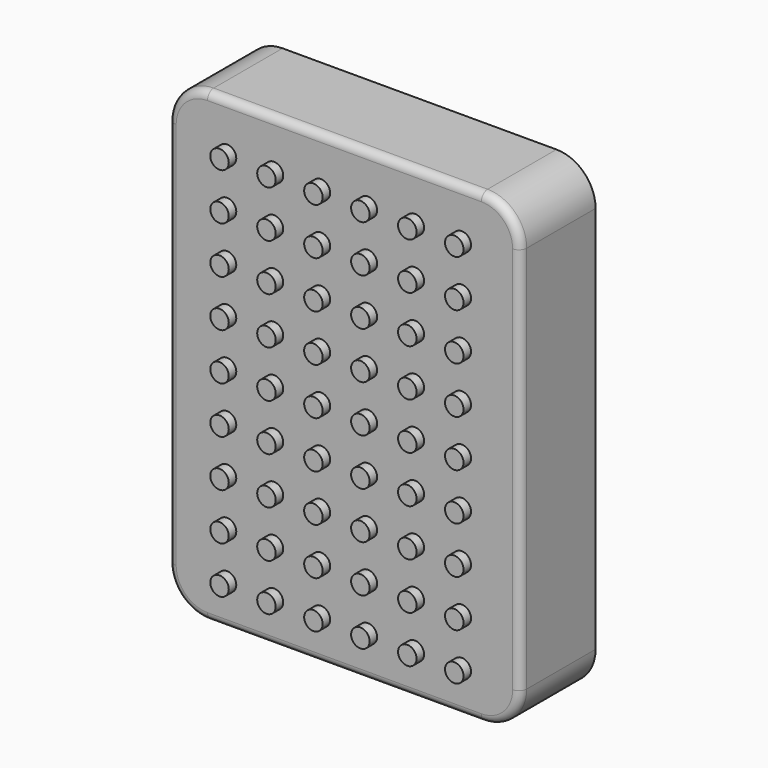
from build123d import *

# Parameters (mm, degrees)
F1_DEPTH = 12
F2_R     = 1
F3_W     = 3.8
F3_H     = 3.8
F4_DEPTH = 2.3
F5_R     = 1.182199
F6_DEPTH = 1.2


with BuildPart() as f1:
    # F0 (on Front) → F1 (new body)
    with BuildSketch(Plane.XZ):
        with BuildLine():
            Line((17.5, 29.8), (-17.5, 29.8))
            ThreePointArc((-17.5, 29.8), (-21.035534, 28.335534), (-22.5, 24.8))
            Line((-22.5, 24.8), (-22.5, -24.8))
            ThreePointArc((-22.5, -24.8), (-21.035534, -28.335534), (-17.5, -29.8))
            Line((-17.5, -29.8), (17.5, -29.8))
            ThreePointArc((17.5, -29.8), (21.035534, -28.335534), (22.5, -24.8))
            Line((22.5, -24.8), (22.5, 24.8))
            ThreePointArc((22.5, 24.8), (21.035534, 28.335534), (17.5, 29.8))
        make_face()
    extrude(amount=F1_DEPTH)

    # F2
    f2_edges = [f1.edges().sort_by_distance(p)[0] for p in [
        (0, -12, 29.8),
        (-21.035534, -12, 28.335534),
        (-22.5, -12, 0),
        (-21.035534, -12, -28.335534),
        (0, -12, -29.8),
        (21.035534, -12, -28.335534),
        (22.5, -12, 0),
        (21.035534, -12, 28.335534),
    ]]
    fillet(f2_edges, radius=F2_R)

    # F3 (on face) → F4 (cut)
    with BuildSketch(Plane(origin=(0, 0, 0), x_dir=(-1, 0, 0), z_dir=(0, 1, 0))):
        with Locations((10, 20)):
            Rectangle(F3_W, F3_H)
        with Locations((-14, 0)):
            Rectangle(F3_W, F3_H)
        with Locations((10, -20)):
            Rectangle(F3_W, F3_H)
    extrude(amount=-F4_DEPTH, mode=Mode.SUBTRACT)

    # F5 (on face) → F6 (join)
    with BuildSketch(Plane.XZ.offset(12)):
        with Locations((-15, 23.5)):
            Circle(F5_R)
        with Locations((-15, 17.5)):
            Circle(F5_R)
        with Locations((-15, 11.5)):
            Circle(F5_R)
        with Locations((-15, 5.5)):
            Circle(F5_R)
        with Locations((-15, -0.5)):
            Circle(F5_R)
        with Locations((-9, 23.5)):
            Circle(F5_R)
        with Locations((-9, 17.5)):
            Circle(F5_R)
        with Locations((-9, 11.5)):
            Circle(F5_R)
        with Locations((-9, 5.5)):
            Circle(F5_R)
        with Locations((-9, -0.5)):
            Circle(F5_R)
        with Locations((-3, 23.5)):
            Circle(F5_R)
        with Locations((-3, 17.5)):
            Circle(F5_R)
        with Locations((-3, 11.5)):
            Circle(F5_R)
        with Locations((-3, 5.5)):
            Circle(F5_R)
        with Locations((-3, -0.5)):
            Circle(F5_R)
        with Locations((3, 23.5)):
            Circle(F5_R)
        with Locations((3, 17.5)):
            Circle(F5_R)
        with Locations((3, 11.5)):
            Circle(F5_R)
        with Locations((3, 5.5)):
            Circle(F5_R)
        with Locations((3, -0.5)):
            Circle(F5_R)
        with Locations((-15, -6.5)):
            Circle(F5_R)
        with Locations((-15, -12.5)):
            Circle(F5_R)
        with Locations((-15, -18.5)):
            Circle(F5_R)
        with Locations((-15, -24.5)):
            Circle(F5_R)
        with Locations((-9, -6.5)):
            Circle(F5_R)
        with Locations((-9, -12.5)):
            Circle(F5_R)
        with Locations((-9, -18.5)):
            Circle(F5_R)
        with Locations((-9, -24.5)):
            Circle(F5_R)
        with Locations((-3, -6.5)):
            Circle(F5_R)
        with Locations((-3, -12.5)):
            Circle(F5_R)
        with Locations((-3, -18.5)):
            Circle(F5_R)
        with Locations((-3, -24.5)):
            Circle(F5_R)
        with Locations((3, -6.5)):
            Circle(F5_R)
        with Locations((3, -12.5)):
            Circle(F5_R)
        with Locations((3, -18.5)):
            Circle(F5_R)
        with Locations((3, -24.5)):
            Circle(F5_R)
        with Locations((9, 23.5)):
            Circle(F5_R)
        with Locations((9, 17.5)):
            Circle(F5_R)
        with Locations((9, 11.5)):
            Circle(F5_R)
        with Locations((9, 5.5)):
            Circle(F5_R)
        with Locations((9, -0.5)):
            Circle(F5_R)
        with Locations((9, -6.5)):
            Circle(F5_R)
        with Locations((9, -12.5)):
            Circle(F5_R)
        with Locations((9, -18.5)):
            Circle(F5_R)
        with Locations((9, -24.5)):
            Circle(F5_R)
        with Locations((15, 23.5)):
            Circle(F5_R)
        with Locations((15, 17.5)):
            Circle(F5_R)
        with Locations((15, 11.5)):
            Circle(F5_R)
        with Locations((15, 5.5)):
            Circle(F5_R)
        with Locations((15, -0.5)):
            Circle(F5_R)
        with Locations((15, -6.5)):
            Circle(F5_R)
        with Locations((15, -12.5)):
            Circle(F5_R)
        with Locations((15, -18.5)):
            Circle(F5_R)
        with Locations((15, -24.5)):
            Circle(F5_R)
    extrude(amount=F6_DEPTH)


solid = f1.part
